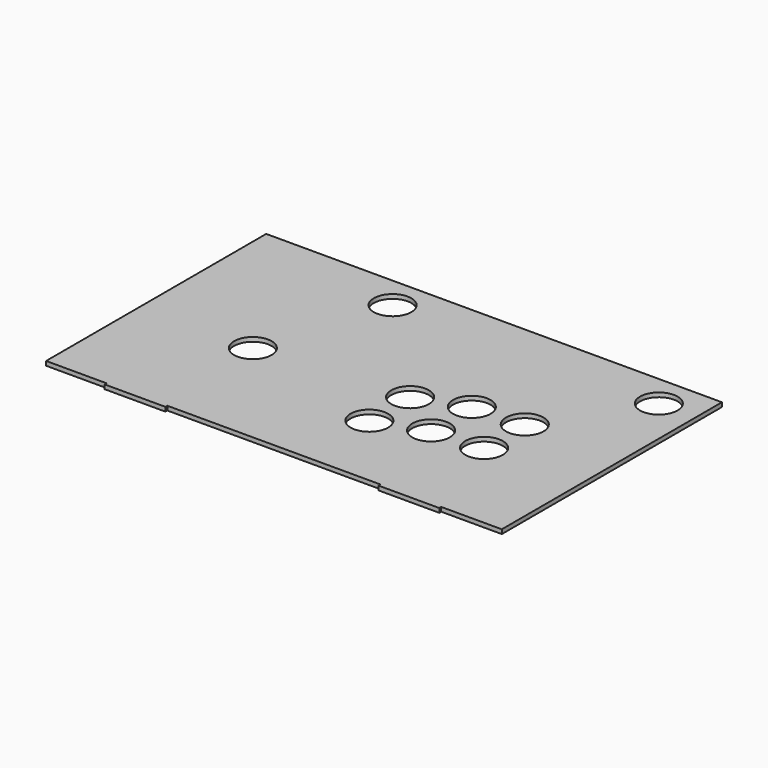
from build123d import *

# Parameters (mm, degrees)
F0_W     = 376
F0_H     = 227
F1_DEPTH = 3.5
F2_R     = 15.5
F3_DEPTH = 25
F5_W     = 50
F5_H     = 2
F6_DEPTH = 3.5


with BuildPart() as f1:
    # F0 (on Top) → F1 (new body)
    with BuildSketch(Plane.XY):
        with Locations((188, 113.5)):
            Rectangle(F0_W, F0_H)
    extrude(amount=F1_DEPTH)

    # F2 (on face) → F3 (cut)
    with BuildSketch(Plane.XY.offset(3.5)):
        with Locations((92.828363, 97.227663)):
            Circle(F2_R)
        with Locations((125.700176, 200.216234)):
            Circle(F2_R)
        with Locations((214.700887, 107.041298)):
            Circle(F2_R)
        with Locations((214.700887, 65.041298)):
            Circle(F2_R)
        with Locations((254.215892, 79.273809)):
            Circle(F2_R)
        with Locations((254.215892, 121.273809)):
            Circle(F2_R)
        with Locations((296.158493, 123.468865)):
            Circle(F2_R)
        with Locations((296.158493, 81.468865)):
            Circle(F2_R)
        with Locations((345.382124, 200.216234)):
            Circle(F2_R)
    extrude(amount=-F3_DEPTH, mode=Mode.SUBTRACT)

    # F5 (on face) → F6 (join)
    with BuildSketch(Plane.XY.offset(3.5)):
        with Locations((75, -1)):
            Rectangle(F5_W, F5_H)
        with Locations((301, -1)):
            Rectangle(F5_W, F5_H)
    extrude(amount=-F6_DEPTH)


solid = f1.part
